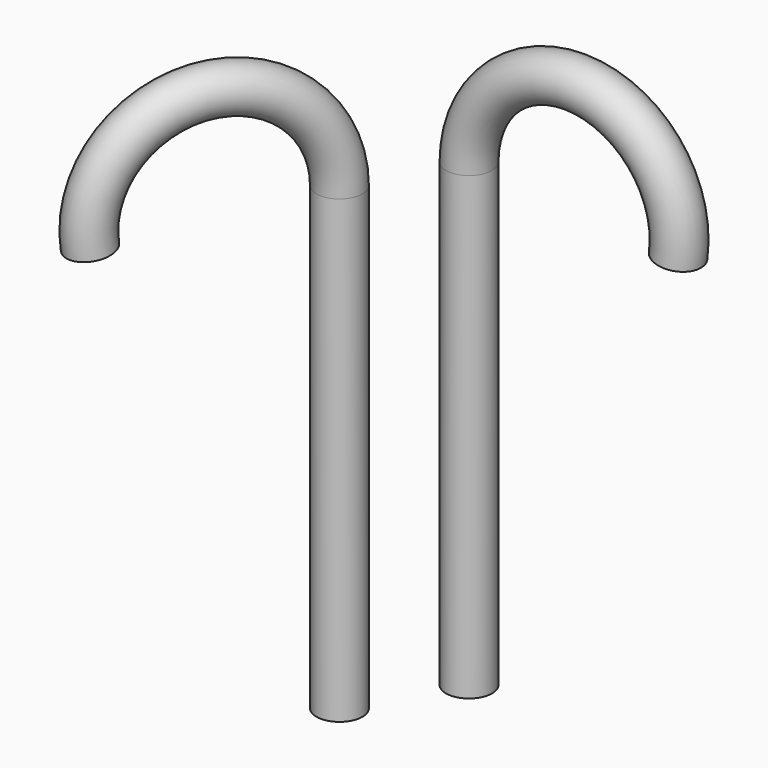
from build123d import *

# Parameters (mm, degrees)
F1_R     = 2.7969716225
F5_ANGLE = 60


with BuildPart() as f2:
    # F2: sweep along a path in F0
    with BuildLine(Plane.XZ) as f2_path:
        Line((0, 0), (0, 55.9675879776))
        ThreePointArc((0, 55.9675879776), (13.6617856471, 68.7094341852), (25.4218969494, 54.1939660907))
    # F1 (on Top) → F2 (sweep)
    with BuildSketch(Plane.XY):
        Circle(F1_R)
    sweep(path=f2_path.line)


with BuildPart() as f3_1:
    # F3: instance of F2
    add(f2.part.mirror(Plane.YZ))


with BuildPart() as f3_1_1:
    # F4: moved
    add(f3_1.part.moved(Location((-13.208, 0, 0))))


with BuildPart() as f3_1_2:
    # F5: moved
    add(f3_1_1.part.rotate(Axis((0, 0, 0), (0, 0, 1)), F5_ANGLE))


solid = Compound([f2.part, f3_1_2.part])
